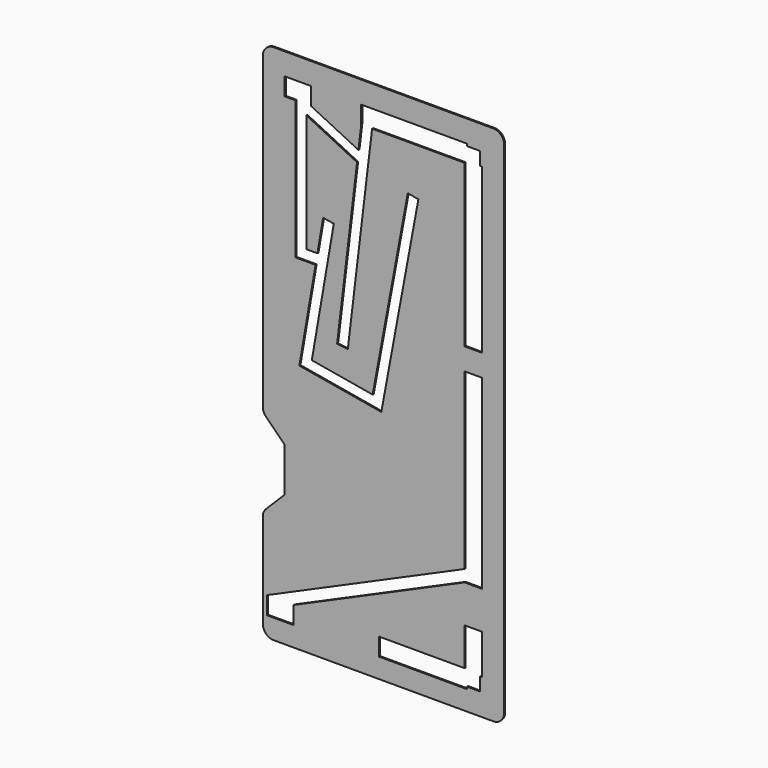
from build123d import *

# Parameters (mm, degrees)
F0_W          = 445
F0_H          = 1084
F1_DEPTH      = 32
F3_DEPTH      = 10
F5_DEPTH      = 10
F7_DEPTH      = 22
F7_DEPTH_BACK = 10
F8_W          = 550
F8_H          = 29
F9_DEPTH      = 1189.001


with BuildPart() as f1:
    # F0 (on Front) → F1 (new body)
    with BuildSketch(Plane.XZ):
        Rectangle(F0_W, F0_H)
    extrude(amount=F1_DEPTH)

    # F2 (on face) → F3 (cut)
    with BuildSketch(Plane.XZ.offset(32)):
        Polygon((-19.5, -30), (-22.7926296995, -47.6978846347), (-5.0528002133, -50.7564759254), (78.1963408907, 396.7076575087), (60.5, 400), align=None)
        Polygon((222.5, -542), (222.5, -510), (190.5, -510), (-217.9259726344, -510), (-222.5, -512.0194736094), (-222.5, -542), align=None)
        Polygon((-145.1793725139, 213), (-148.2828207898, 195), (-185.2966065805, -19.6799575863), (-167.5583244971, -22.7382820834), (-164.5, -5), (-114.5, 285), (-132.2382820834, 288.0583244971), align=None)
        Polygon((-164.5, -5), (-167.5583244971, -22.7382820834), (-22.7926296995, -47.6978846347), (-19.5, -30), align=None)
        Polygon((-176.5, 213), (-176.5, 195), (-148.2828207898, 195), (-145.1793725139, 213), align=None)
        Polygon((-176.5, 510), (-194.5, 510), (-194.5, 195), (-176.5, 195), (-176.5, 213), (-176.5, 489.9562019444), align=None)
        Polygon((-81.6284831041, 50), (-26.3705931966, 510), (-44.5, 510), (-51.8361056045, 448.9298327582), (-54.11006781, 430), (-99.5, 52.1468311155), align=None)
        Polygon((-51.8361056045, 448.9298327582), (-176.5, 510), (-176.5, 489.9562019444), (-54.11006781, 430), align=None)
        Polygon((222.5, 542), (-222.5, 542), (-222.5, 510), (-194.5, 510), (-176.5, 510), (-44.5, 510), (-26.3705931966, 510), (190.5, 510), (222.5, 510), align=None)
        Polygon((222.5, -510), (222.5, 510), (190.5, 510), (190.5, -310), (190.5, -329.6763142865), (190.5, -510), align=None)
        Polygon((-222.5, -512.0194736094), (-222.5, -492.3431593229), (-366.9909259611, -556.1371833743), (-359.7208209674, -572.6036818904), align=None)
        Polygon((190.5, -310), (-222.5, -492.3431593229), (-222.5, -512.0194736094), (-217.9259726344, -510), (190.5, -329.6763142865), align=None)
    extrude(amount=-F3_DEPTH, mode=Mode.SUBTRACT)

    # F4 (on face) → F5 (cut, through all)
    with BuildSketch(Plane.XZ.offset(32)):
        Polygon((-222.5, 542), (-222.5, 506.7), (-197.8, 506.7), (-197.8, 191.7), (-152.2004758656, 191.7), (-189.109317787, -22.3712831437), (-2.4041469191, -54.5618298451), (82.0442661774, 399.3483905486), (57.8592669601, 403.8479252867), (-22.1486532942, -26.1946460803), (-160.6872887936, -2.3086744425), (-110.6872887936, 287.6913255575), (-134.9296076409, 291.8710357036), (-147.9590965553, 216.3), (-173.2, 216.3), (-173.2, 484.6649064346), (-57.665964291, 428.0672610853), (-103.1700304688, 49.2639720557), (-78.7456240443, 46.3299695312), (-23.4432839132, 506.7), (187.2, 506.7), (187.2, -307.8496549533), (-222.5, -488.7358350371), (-222.5, -542), (222.5, -542), (222.5, 542), align=None)
        Polygon((-202.2811579858, -506.7), (187.2, -334.7406178115), (187.2, -506.7), align=None, mode=Mode.SUBTRACT)
        Polygon((-54.5582159435, 453.9380325215), (-162.2623968703, 506.7), (-48.2201398778, 506.7), align=None, mode=Mode.SUBTRACT)
    extrude(amount=-F5_DEPTH, mode=Mode.SUBTRACT)

    # F6 (on face) → F7 (join, two sides)
    with BuildSketch(Plane.XZ.offset(22)) as f7_sk:
        with BuildLine():
            Line((-222.5, -192), (-222.5, -292))
            Line((-222.5, -292), (-265.1776695297, -334.6776695297))
            ThreePointArc((-265.1776695297, -334.6776695297), (-270.5969883128, -342.7882532502), (-272.5, -352.3553390593))
            Line((-272.5, -352.3553390593), (-272.5, -567))
            ThreePointArc((-272.5, -567), (-265.1776695297, -584.6776695297), (-247.5, -592))
            Line((-247.5, -592), (252.5, -592))
            ThreePointArc((252.5, -592), (270.1776695297, -584.6776695297), (277.5, -567))
            Line((277.5, -567), (277.5, 572))
            ThreePointArc((277.5, 572), (270.1776695297, 589.6776695297), (252.5, 597))
            Line((252.5, 597), (-247.5, 597))
            ThreePointArc((-247.5, 597), (-265.1776695297, 589.6776695297), (-272.5, 572))
            Line((-272.5, 572), (-272.5, -131.6446609407))
            ThreePointArc((-272.5, -131.6446609407), (-270.5969883128, -141.2117467498), (-265.1776695297, -149.3223304703))
            Line((-265.1776695297, -149.3223304703), (-222.5, -192))
        make_face()
        Polygon((-162.2623968703, 547), (-162.2623968703, 506.7), (-48.2201398778, 506.7), (-48.2201398778, 547), (192.5, 547), (192.5, 542), (222.5, 542), (222.5, 512), (227.5, 512), (227.5, 138.6296910943), (187.2, 138.6296910943), (187.2, 88.6296910943), (227.5, 88.6296910943), (227.5, -334.7406178115), (187.2, -334.7406178115), (187.2, -420.7203089057), (227.5, -420.7203089057), (227.5, -512), (222.5, -512), (222.5, -542), (192.5, -542), (192.5, -547), (-7.5405789929, -547), (-7.5405789929, -506.7), (-202.2811579858, -506.7), (-202.2811579858, -547), (-263.1881188044, -547), (-263.1881188044, -506.7), (-222.5, -488.7358350371), (-222.5, -398.0570733547), (-146.2218463421, -398.0570733547), (-146.2218463421, -83.5470482707), (-222.5, -83.5470482707), (-222.5, 547), align=None, mode=Mode.SUBTRACT)
    extrude(amount=-F7_DEPTH)
    extrude(f7_sk.sketch, amount=F7_DEPTH_BACK)

    # F8 (on face) → F9 (cut, through all)
    with BuildSketch(Plane.XY.offset(597)):
        with Locations((2.5, -14.5)):
            Rectangle(F8_W, F8_H)
    extrude(amount=-F9_DEPTH, mode=Mode.SUBTRACT)


solid = f1.part
